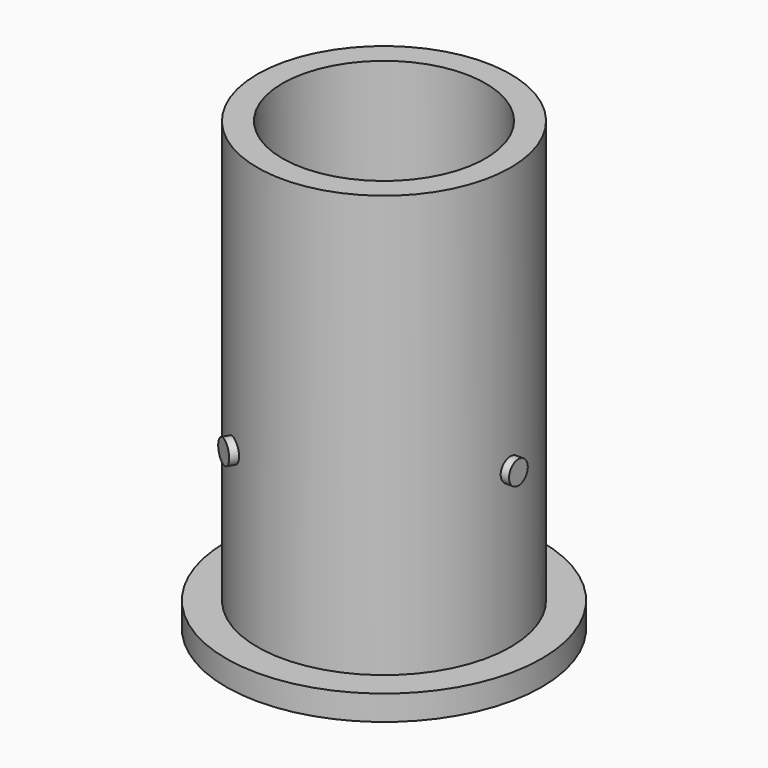
from build123d import *

# Parameters (mm, degrees)
F3_R     = 0.75
F5_COUNT = 3


with BuildPart() as f2:
    # F1 (on Front) → F2 (revolve)
    with BuildSketch(Plane.XZ):
        Polygon((0, -1.6), (0, 0), (-6.5, 0), (-6.5, 27), (-8.1, 27), (-8.1, 0), (-10.1, 0), (-10.1, -1.6), align=None)
    revolve(axis=Axis((0, 0, -0.8), (0, 0, 1)))


with BuildPart() as f4:
    # F3 (on offset) → F4 (new body, up to the next surface of F2)
    with BuildSketch(Plane.YZ.offset(8.6)):
        with Locations((0, 10)):
            Circle(F3_R)
    extrude(until=Until.NEXT, target=f2.part, dir=(-1, 0, 0))


with BuildPart() as f5_1:
    # F5: instance of F4
    add(f4.part.rotate(Axis((0, 0, -0.8), (0, 0, 1)), 1 * 360 / F5_COUNT))


with BuildPart() as f5_2:
    # F5: instance of F4
    add(f4.part.rotate(Axis((0, 0, -0.8), (0, 0, 1)), 2 * 360 / F5_COUNT))


solid = Compound([f2.part, f4.part, f5_1.part, f5_2.part])
